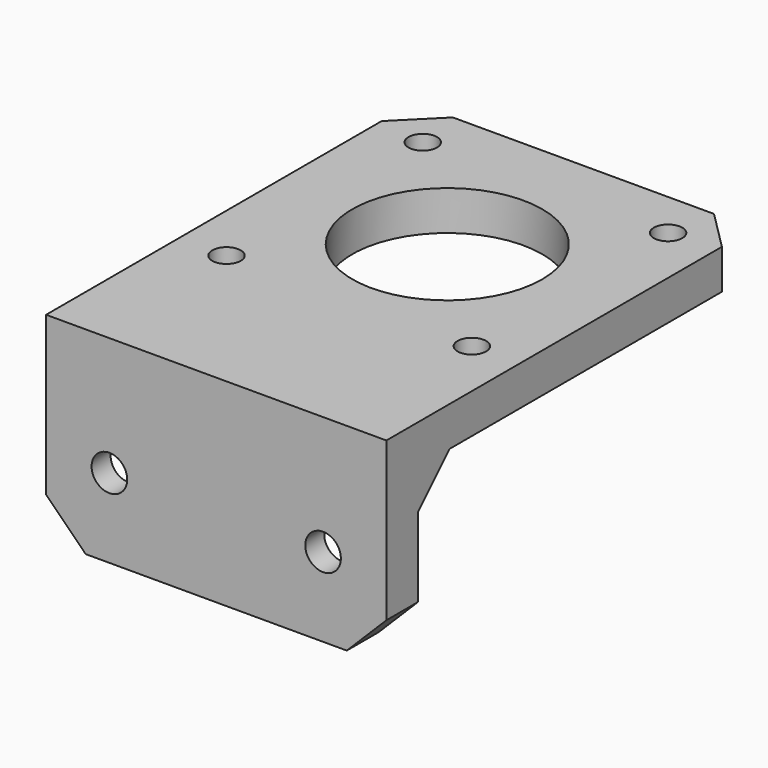
from build123d import *

# Parameters (mm, degrees)
F0_W          = 43
F0_H          = 43
F0_R          = 1.8
F0_R_2        = 12
F0_H_2        = 10
F1_DEPTH      = 5
F0_H_3        = 5
F2_DEPTH      = 5
F2_DEPTH_BACK = 20
F3_R          = 2.25
F4_DEPTH      = 5
F3_R_2        = 4.5
F5_DEPTH      = 2
F6_SIZE       = 5


with BuildPart() as f1:
    # F0 (on Top) → F1 (new body)
    with BuildSketch(Plane.XY):
        Rectangle(F0_W, F0_H)
        with Locations((-15.5, -15.5)):
            Circle(F0_R, mode=Mode.SUBTRACT)
        with Locations((15.5, -15.5)):
            Circle(F0_R, mode=Mode.SUBTRACT)
        with Locations((-15.5, 15.5)):
            Circle(F0_R, mode=Mode.SUBTRACT)
        Circle(F0_R_2, mode=Mode.SUBTRACT)
        with Locations((15.5, 15.5)):
            Circle(F0_R, mode=Mode.SUBTRACT)
        with Locations((0, -26.5)):
            Rectangle(F0_W, F0_H_2)
    extrude(amount=F1_DEPTH)

    # F0 (on Top) → F2 (join, two sides)
    with BuildSketch(Plane.XY) as f2_sk:
        with Locations((0, -34)):
            Rectangle(F0_W, F0_H_3)
    extrude(amount=F2_DEPTH)
    extrude(f2_sk.sketch, amount=-F2_DEPTH_BACK)

    # F3 (on face) → F4 (cut, through all)
    with BuildSketch(Plane(origin=(0, -31.5, 0), x_dir=(-1, 0, 0), z_dir=(0, 1, 0))):
        with Locations((-13.5, -10)):
            Circle(F3_R)
        with Locations((13.5, -10)):
            Circle(F3_R)
    extrude(amount=-F4_DEPTH, mode=Mode.SUBTRACT)

    # F3 (on face) → F5 (cut)
    with BuildSketch(Plane(origin=(0, -31.5, 0), x_dir=(-1, 0, 0), z_dir=(0, 1, 0))):
        with Locations((-13.5, -10)):
            Circle(F3_R_2)
        with Locations((-13.5, -10)):
            Circle(F3_R, mode=Mode.SUBTRACT)
        with Locations((13.5, -10)):
            Circle(F3_R_2)
        with Locations((13.5, -10)):
            Circle(F3_R, mode=Mode.SUBTRACT)
    extrude(amount=-F5_DEPTH, mode=Mode.SUBTRACT)

    # F6
    f6_edges = [f1.edges().sort_by_distance(p)[0] for p in [
        (-21.5, 21.5, 2.5),
        (21.5, 21.5, 2.5),
        (-21.5, -34, -20),
        (21.5, -34, -20),
        (0, -31.5, 0),
    ]]
    chamfer(f6_edges, length=F6_SIZE)


solid = f1.part
